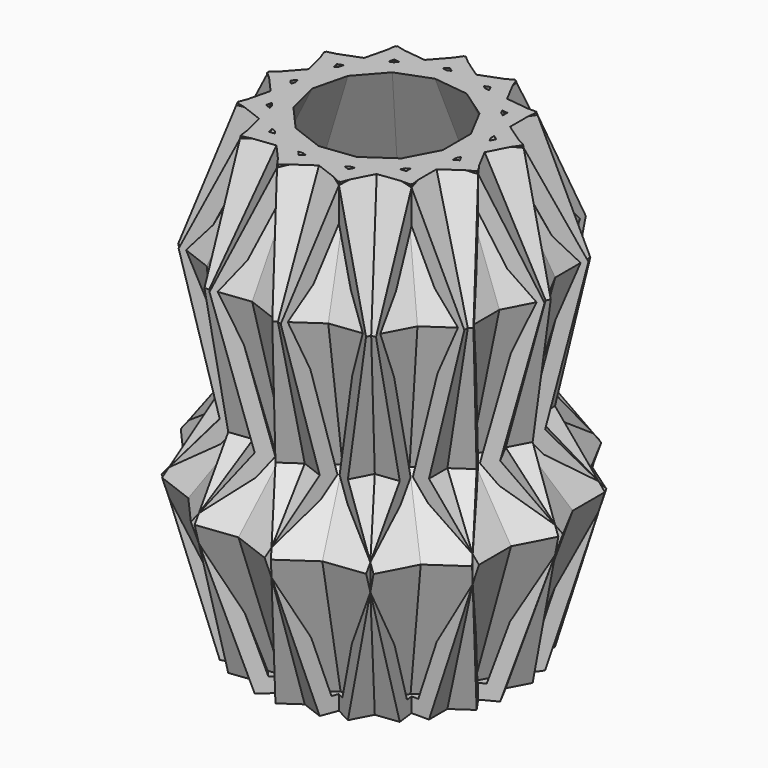
from build123d import *

# Parameters (mm, degrees)
F1_DEPTH      = 4
F1_DEPTH_BACK = 4
F2_COUNT      = 13


with BuildPart() as f1:
    # F0 (on Front) → F1 (new body, two sides)
    with BuildSketch(Plane.XZ) as f1_sk:
        Polygon((0, 0.75), (0, 0), (5.4021112579, 0), (7.937498767, 7.7451506327), (5.4021112579, 10.7712742404), (7.1967384892, 18.005710148), (4.4533452835, 23.6263216995), (3.6187745919, 23.6263216995), (6.4031684622, 17.9217087702), (4.5823852976, 10.5818340171), (7.0951586339, 7.582701661), (4.8584627624, 0.75), align=None)
    extrude(amount=F1_DEPTH)
    extrude(f1_sk.sketch, amount=-F1_DEPTH_BACK)

    # F2: F1 ×13 about axis
    f2_axis = Axis((0, 0, 1.0500000276), (0, 0, -1))


with BuildPart() as f1_1:
    add(f1.part)
    for i in range(1, F2_COUNT):
        add(f1.part.rotate(f2_axis, i * 360 / F2_COUNT))


solid = f1_1.part
